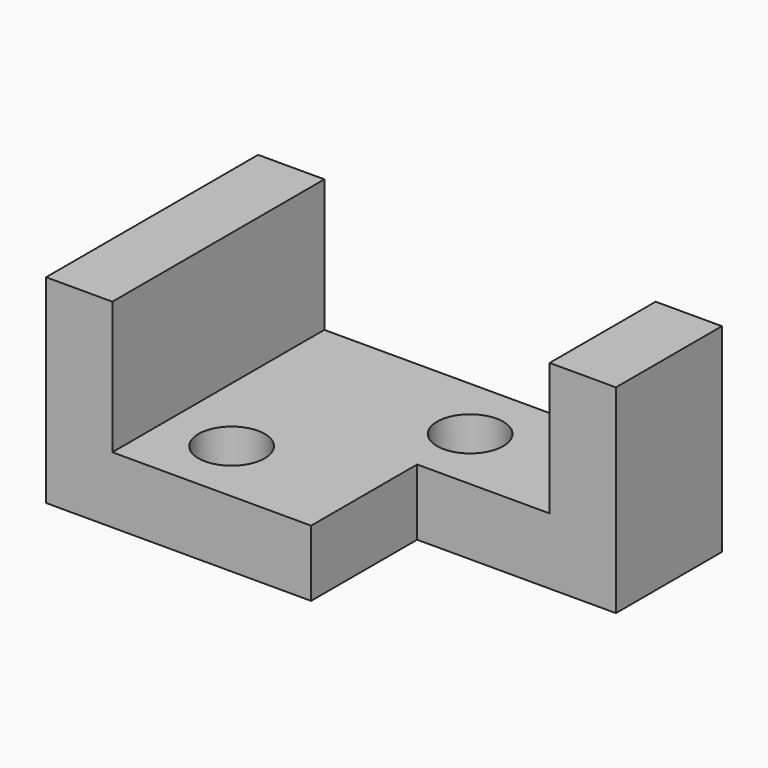
from build123d import *

# Parameters (mm, degrees)
F0_W     = 88.9
F0_H     = 38.1
F1_DEPTH = 50.8
F2_W     = 38.1
F2_H     = 25.4
F3_DEPTH = 49.784
F4_W     = 63.5
F4_H     = 25.4
F5_DEPTH = 71.374
F6_R     = 6.35
F7_DEPTH = 25.4


with BuildPart() as f1:
    # F0 (on Front) → F1 (new body)
    with BuildSketch(Plane.XZ):
        Rectangle(F0_W, F0_H)
    extrude(amount=F1_DEPTH)

    # F2 (on face) → F3 (cut)
    with BuildSketch(Plane.XY.offset(19.05)):
        with Locations((25.4, -38.1)):
            Rectangle(F2_W, F2_H)
    extrude(amount=-F3_DEPTH, mode=Mode.SUBTRACT)

    # F4 (on face) → F5 (cut)
    with BuildSketch(Plane(origin=(0, 0, 0), x_dir=(-1, 0, 0), z_dir=(0, 1, 0))):
        with Locations((0, 6.35)):
            Rectangle(F4_W, F4_H)
    extrude(amount=-F5_DEPTH, mode=Mode.SUBTRACT)

    # F6 (on face) → F7 (cut)
    with BuildSketch(Plane.XY.offset(-6.35)):
        with Locations((-19.05, -38.1)):
            Circle(F6_R)
        with Locations((6.35, -12.7)):
            Circle(F6_R)
    extrude(amount=-F7_DEPTH, mode=Mode.SUBTRACT)


solid = f1.part
